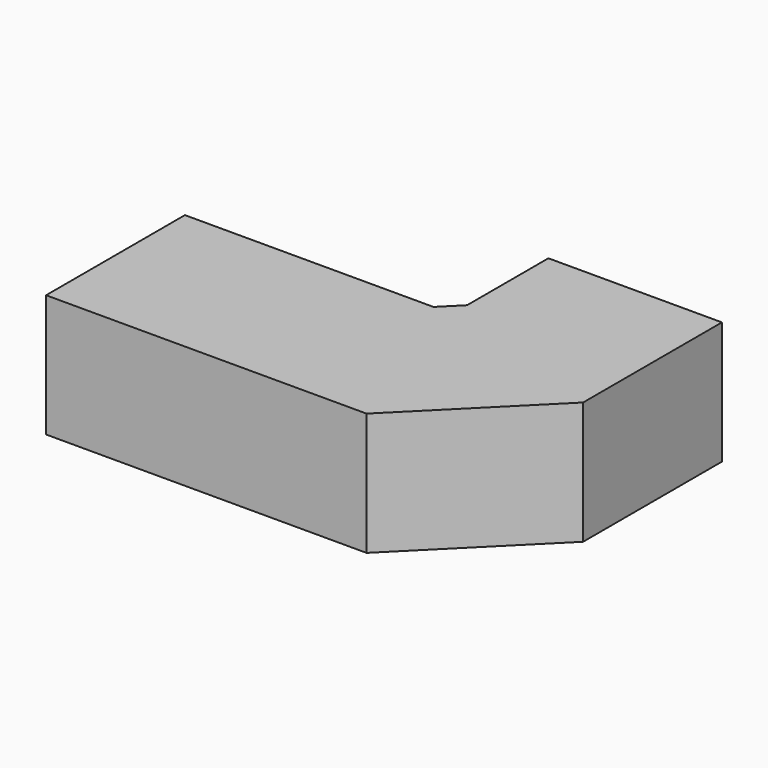
from build123d import *

# Parameters (mm, degrees)
F1_DEPTH = 1.2
F4_DEPTH = 40
F6_DEPTH = 1.2


with BuildPart() as f1:
    # F0 (on Top) → F1 (new body)
    with BuildSketch(Plane.XY):
        Polygon((0, 60), (0, 0), (110.8, 0), (152.4, 41.6), (152.4, 101.6), (92.4, 101.6), (92.4, 66.452814), (85.947186, 60), align=None)
    extrude(amount=F1_DEPTH)

    # F2 (on face) + F3 (on face) → F4 (join)
    with BuildSketch(Plane.XY.offset(1.2)):
        Polygon((109.607065, 2.88), (0, 2.88), (0, 0), (110.8, 0), (152.4, 41.6), (152.4, 101.6), (149.52, 101.6), (149.52, 42.792935), align=None)
    with BuildSketch(Plane.XY.offset(1.2)):
        Polygon((85.947186, 60), (0, 60), (0, 57.12), (87.140121, 57.12), (95.28, 65.259879), (95.28, 101.6), (92.4, 101.6), (92.4, 66.452814), align=None)
    extrude(amount=F4_DEPTH)

    # F5 (on face) → F6 (join)
    with BuildSketch(Plane.XY.offset(41.2)):
        Polygon((92.4, 66.452814), (85.947186, 60), (0, 60), (0, 0), (110.8, 0), (152.4, 41.6), (152.4, 101.6), (92.4, 101.6), align=None)
    extrude(amount=F6_DEPTH)


solid = f1.part
